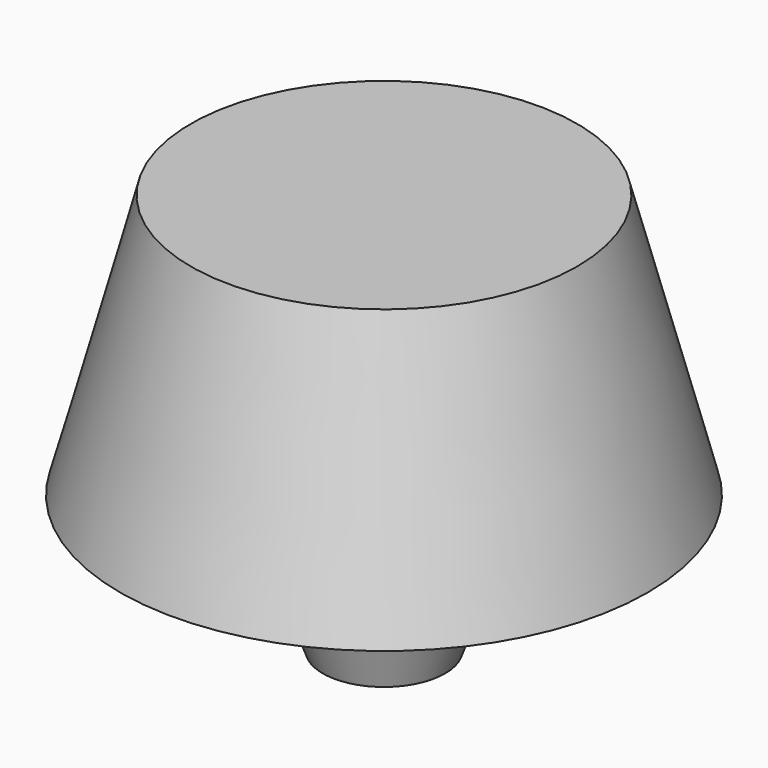
from build123d import *

# Parameters (mm, degrees)
SKETCH_R        = 25
PAD_DEPTH       = 25
PAD_TAPER       = 15
SKETCH001_R     = 22.984215
POCKET_DEPTH    = 17
POCKET_TAPER    = 15
SKETCH002_R     = 16.714516
PAD001_DEPTH    = 30
PAD001_TAPER    = 20
SKETCH003_R     = 4.228339
POCKET001_DEPTH = 20


with BuildPart() as part:
    # Sketch → Pad (new body)
    with BuildSketch(Plane.XY):
        Circle(SKETCH_R)
    extrude(amount=PAD_DEPTH, taper=PAD_TAPER)

    # Sketch001 (on Face2 of Pad) → Pocket (cut)
    with BuildSketch(Plane(origin=(0, 0, 0), x_dir=(1, 0, 0), z_dir=(0, 0, -1))):
        Circle(SKETCH001_R)
    extrude(amount=-POCKET_DEPTH, taper=POCKET_TAPER, mode=Mode.SUBTRACT)

    # Sketch002 (on Face5 of Pocket) → Pad001 (join)
    with BuildSketch(Plane(origin=(0, 0, 17), x_dir=(1, 0, 0), z_dir=(0, 0, -1))):
        Circle(SKETCH002_R)
    extrude(amount=PAD001_DEPTH, taper=PAD001_TAPER)

    # Sketch003 (on Face7 of Pad001) → Pocket001 (cut)
    with BuildSketch(Plane(origin=(0, 0, -13), x_dir=(1, 0, 0), z_dir=(0, 0, -1))):
        Circle(SKETCH003_R)
    extrude(amount=-POCKET001_DEPTH, mode=Mode.SUBTRACT)


solid = part.part
